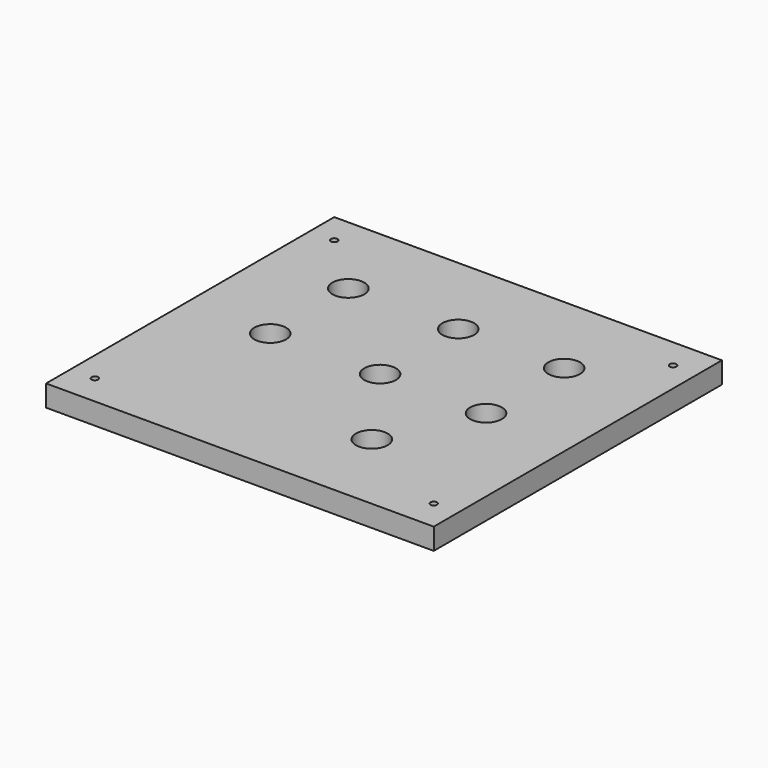
from build123d import *

# Parameters (mm, degrees)
F0_W     = 127
F0_H     = 118
F1_DEPTH = 7
F2_R     = 1.1
F3_DEPTH = 25
F4_R     = 5.2
F5_DEPTH = 7.001
F6_R     = 5.2
F7_DEPTH = 7.001


with BuildPart() as f1:
    # F0 (on Top) → F1 (new body)
    with BuildSketch(Plane.XY):
        Rectangle(F0_W, F0_H)
    extrude(amount=F1_DEPTH)

    # F2 (on face) → F3 (cut)
    with BuildSketch(Plane(origin=(0, 0, 0), x_dir=(1, 0, 0), z_dir=(0, 0, -1))):
        with BuildLine():
            ThreePointArc((-55.5, -50.1), (-54.722183, -49.777817), (-54.4, -49))
            ThreePointArc((-54.4, -49), (-56.277817, -48.222183), (-55.5, -50.1))
        make_face()
        with Locations((55.5, -49)):
            Circle(F2_R)
        with Locations((-55.5, 49)):
            Circle(F2_R)
        with Locations((55.5, 49)):
            Circle(F2_R)
    extrude(amount=-F3_DEPTH, mode=Mode.SUBTRACT)

    # F4 (on Top) → F5 (cut, through all)
    with BuildSketch(Plane.XY):
        with Locations((-36, 30.4)):
            Circle(F4_R)
        with Locations((-36, -1.6)):
            Circle(F4_R)
        with Locations((0, -1.6)):
            Circle(F4_R)
        with Locations((34.7, -1.6)):
            Circle(F4_R)
        with Locations((34.7, 30.4)):
            Circle(F4_R)
        with Locations((0, 30.4)):
            Circle(F4_R)
    extrude(amount=F5_DEPTH, mode=Mode.SUBTRACT)

    # F6 (on face) → F7 (cut, through all)
    with BuildSketch(Plane.XY.offset(7)):
        with Locations((20.918876, -31.143876)):
            Circle(F6_R)
    extrude(amount=-F7_DEPTH, mode=Mode.SUBTRACT)


solid = f1.part
